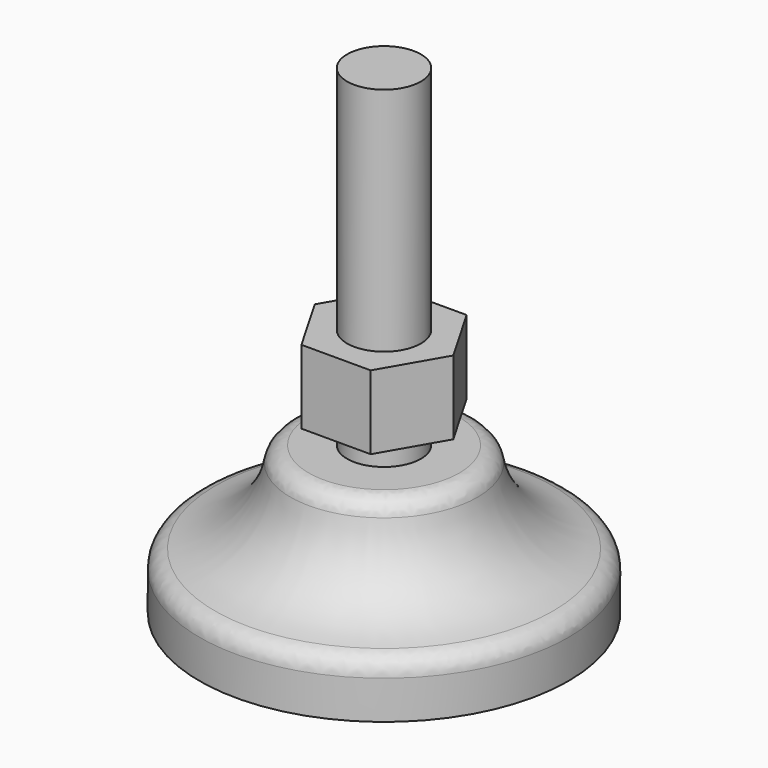
from build123d import *

# Parameters (mm, degrees)
FILLET_R  = 2
PAD_DEPTH = 8


with BuildPart() as part:
    # Sketch → Revolution (revolve)
    with BuildSketch(Plane.XZ):
        with BuildLine():
            Line((0, 0), (20, 0))
            Line((20, 0), (20, 6))
            ThreePointArc((10, 16), (12.928932, 8.928932), (20, 6))
            Line((10, 16), (4, 16))
            Line((4, 16), (4, 52))
            Line((4, 52), (0, 52))
            Line((0, 52), (0, 0))
        make_face()
    revolve(axis=Axis((0, 0, 0), (0, 0, 1)))

    # Fillet
    fillet_edges = [part.edges().sort_by_distance(p)[0] for p in [
        (-10, 0, 16),
        (-20, 0, 6),
    ]]
    fillet(fillet_edges, radius=FILLET_R)

    # Sketch001 (on DatumPlane) → Pad (new body)
    with BuildSketch(Plane.XY.offset(19)):
        Polygon((3.752777, 6.5), (-3.752777, 6.5), (-7.505553, 0), (-3.752777, -6.5), (3.752777, -6.5), (7.505553, 0), align=None)
    extrude(amount=PAD_DEPTH)


solid = part.part
